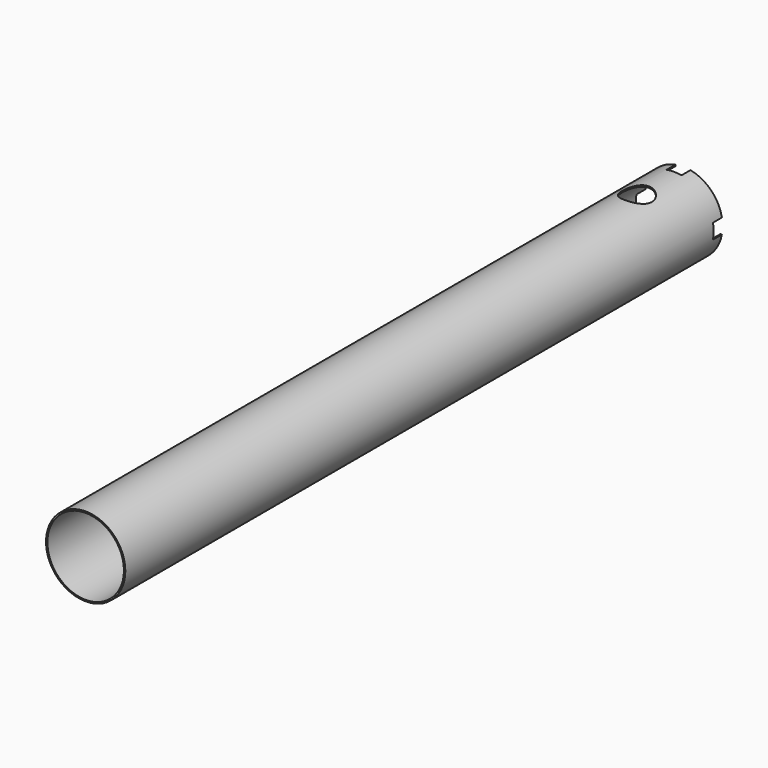
from build123d import *

# Parameters (mm, degrees)
SKETCH039_R          = 10.625
SKETCH039_R_2        = 10.25
PAD019_DEPTH         = 200
SKETCH044_R          = 4
POCKET021_DEPTH      = 50
POCKET021_DEPTH_BACK = 50
POCKET022_DEPTH      = 3


with BuildPart() as part:
    # Sketch039 → Pad019 (new body)
    with BuildSketch(Plane.XZ):
        Circle(SKETCH039_R)
        Circle(SKETCH039_R_2, mode=Mode.SUBTRACT)
    extrude(amount=PAD019_DEPTH)

    # Sketch044 → Pocket021 (cut, two sides)
    with BuildSketch(Plane.XY) as pocket021_sk:
        with Locations((0, -15.434778)):
            Circle(SKETCH044_R)
    extrude(amount=-POCKET021_DEPTH, mode=Mode.SUBTRACT)
    extrude(pocket021_sk.sketch, amount=POCKET021_DEPTH_BACK, mode=Mode.SUBTRACT)

    # Sketch045 → Pocket022 (cut)
    with BuildSketch(Plane.XZ):
        Polygon((12, -2), (12, 2), (2, 2), (2, 12), (-2, 12), (-2, 2), (-12, 2), (-12, -2), (-2, -2), (-2, -12), (2, -12), (2, -2), align=None)
    extrude(amount=POCKET022_DEPTH, mode=Mode.SUBTRACT)


with BuildPart() as part_1:
    # Body017 placement: moved
    add(part.part.moved(Location((0, -52.5, 0))))


solid = part_1.part
